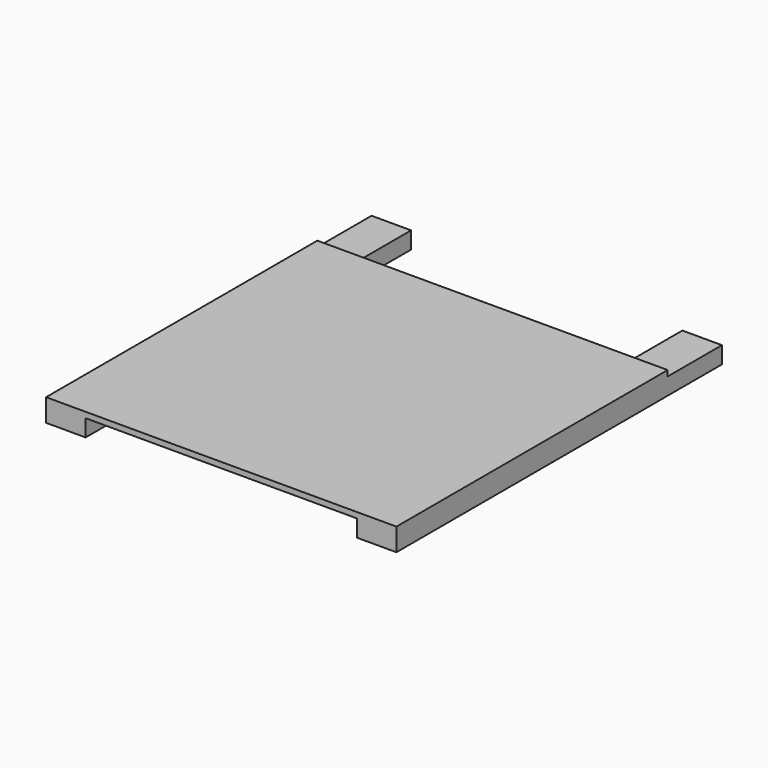
from build123d import *

# Parameters (mm, degrees)
F0_W     = 787.4
F0_H     = 12.7
F1_DEPTH = 762
F2_W     = 88.9
F2_H     = 38.1
F3_DEPTH = 914.4


with BuildPart() as f1:
    # F0 (on Front) → F1 (new body)
    with BuildSketch(Plane.XZ):
        with Locations((393.7, 6.35)):
            Rectangle(F0_W, F0_H)
    extrude(amount=F1_DEPTH)

    # F2 (on face) → F3 (join)
    with BuildSketch(Plane.XZ.offset(762)):
        with Locations((44.45, -19.05)):
            Rectangle(F2_W, F2_H)
        with Locations((742.95, -19.05)):
            Rectangle(F2_W, F2_H)
    extrude(amount=-F3_DEPTH)


solid = f1.part
